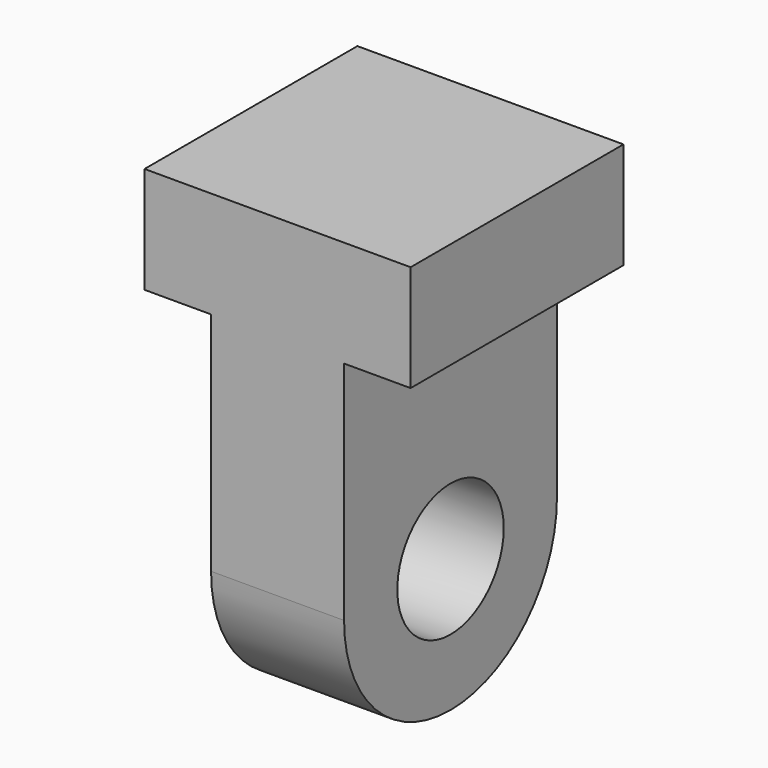
from build123d import *

# Parameters (mm, degrees)
F1_DEPTH = 5
F3_D     = 5
F4_DEPTH = 7.5
F5_W     = 10
F5_H     = 4
F6_DEPTH = 2.5
F7_W     = 10
F7_H     = 4
F8_DEPTH = 2.5


with BuildPart() as f1:
    # F0 (on Right) → F1 (new body)
    with BuildSketch(Plane.YZ):
        with BuildLine():
            Line((-57.2294044495, 42.7520807087), (-57.2294044495, 37.7520807087))
            ThreePointArc((-57.2294044495, 37.7520807087), (-52.2294044495, 32.7520807087), (-47.2294044495, 37.7520807087))
            Line((-47.2294044495, 37.7520807087), (-47.2294044495, 42.7520807087))
            Line((-47.2294044495, 42.7520807087), (-57.2294044495, 42.7520807087))
        make_face()
    extrude(amount=F1_DEPTH)

    # F3 (through all)
    with Locations(Plane(origin=(0, 0, 0), x_dir=(0, -1, 0), z_dir=(-1, 0, 0))):
        with Locations((52.2294044495, 37.7520807087)):
            Hole(F3_D / 2)

    # F4 (add): a face of the model
    f4_faces = [f1.faces().sort_by_distance(p)[0] for p in [
        (2.5, -52.2294044495, 42.7520807087),
    ]]
    extrude(f4_faces, amount=F4_DEPTH)

    # F5 (on face) → F6 (join)
    with BuildSketch(Plane(origin=(0, 0, 0), x_dir=(0, -1, 0), z_dir=(-1, 0, 0))):
        with Locations((52.2294044495, 48.2520807087)):
            Rectangle(F5_W, F5_H)
    extrude(amount=F6_DEPTH)

    # F7 (on face) → F8 (join)
    with BuildSketch(Plane.YZ.offset(5)):
        with Locations((-52.2294044495, 48.2520807087)):
            Rectangle(F7_W, F7_H)
    extrude(amount=F8_DEPTH)


solid = f1.part
